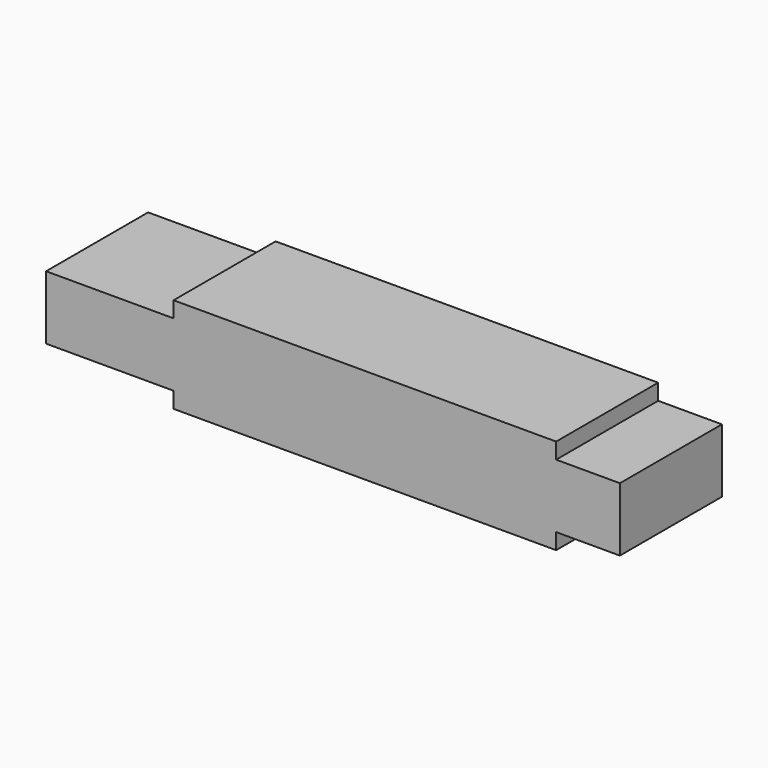
from build123d import *

# Parameters (mm, degrees)
F0_W     = 25.4
F0_H     = 12.7
F0_W_2   = 12.7
F1_DEPTH = 12.7


with BuildPart() as f1:
    # F0 (on Front) → F1 (new body, symmetric)
    with BuildSketch(Plane.XZ):
        Polygon((0, 3.175), (0, 0), (76.2, 0), (76.2, 3.175), (76.2, 15.875), (76.2, 19.05), (0, 19.05), (0, 15.875), align=None)
        with Locations((-12.7, 9.525)):
            Rectangle(F0_W, F0_H)
        with Locations((82.55, 9.525)):
            Rectangle(F0_W_2, F0_H)
    extrude(amount=F1_DEPTH, both=True)


solid = f1.part
